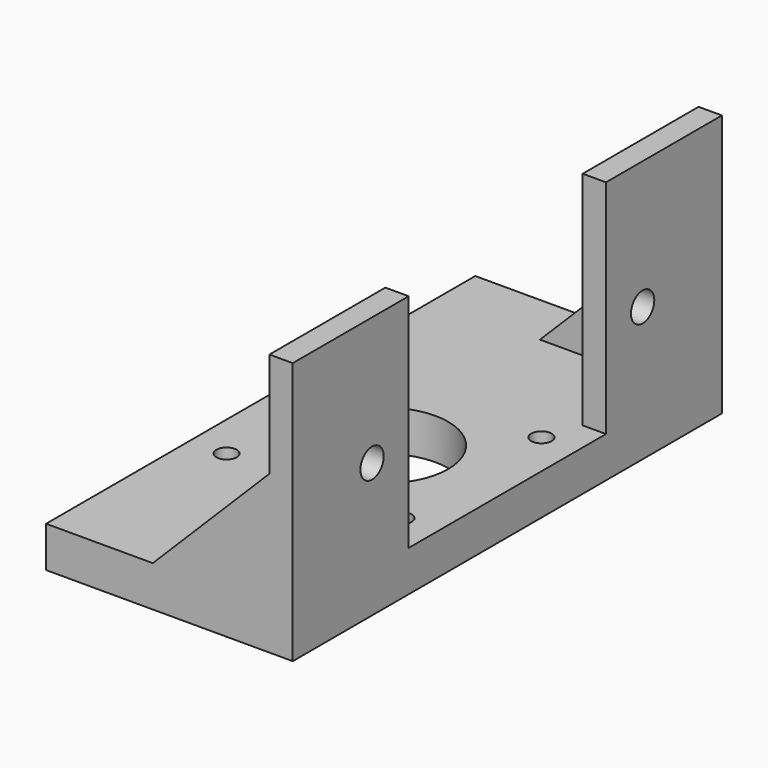
from build123d import *

# Parameters (mm, degrees)
SKETCH001_W  = 24.85
SKETCH001_H  = 38
SKETCH001_R  = 2.5
PAD001_DEPTH = 4
PAD002_DEPTH = 9
SKETCH_W     = 42.3
SKETCH_H     = 92
SKETCH_R     = 1.75
SKETCH_R_2   = 11
PAD_DEPTH    = 7
PAD003_DEPTH = 9


with BuildPart() as support:
    # Sketch001 → Pad001 (new body)
    with BuildSketch(Plane.YZ):
        with Locations((-33.575, 26)):
            Rectangle(SKETCH001_W, SKETCH001_H)
        with Locations((-29, 23)):
            Circle(SKETCH001_R, mode=Mode.SUBTRACT)
        with Locations((33.575, 26)):
            Rectangle(SKETCH001_W, SKETCH001_H)
        with Locations((29, 23)):
            Circle(SKETCH001_R, mode=Mode.SUBTRACT)
    extrude(amount=-PAD001_DEPTH)


with BuildPart() as pad002:
    # Sketch002 → Pad002 (new body)
    with BuildSketch(Plane.XZ.offset(46)):
        Polygon((-4, 27), (-4, 7), (-24, 7), align=None)
    extrude(amount=-PAD002_DEPTH)


with BuildPart() as obj1:
    # Sketch → Pad (new body)
    with BuildSketch(Plane.XY):
        with Locations((-21.15, 0)):
            Rectangle(SKETCH_W, SKETCH_H)
        with Locations((-6.15, 15)):
            Circle(SKETCH_R, mode=Mode.SUBTRACT)
        with Locations((-21.15, 0)):
            Circle(SKETCH_R_2, mode=Mode.SUBTRACT)
        with Locations((-36.15, 15)):
            Circle(SKETCH_R, mode=Mode.SUBTRACT)
        with Locations((-36.15, -15)):
            Circle(SKETCH_R, mode=Mode.SUBTRACT)
        with Locations((-6.15, -15)):
            Circle(SKETCH_R, mode=Mode.SUBTRACT)
    extrude(amount=PAD_DEPTH)


with BuildPart() as fixation:
    # Sketch003 → Pad003 (new body)
    with BuildSketch(Plane.XZ.offset(-46)):
        Polygon((-4, 27), (-4, 7), (-24, 7), align=None)
    extrude(amount=PAD003_DEPTH)

    # Fusion: union support, Pad002, obj1
    add(support.part)
    add(pad002.part)
    add(obj1.part)


solid = fixation.part
